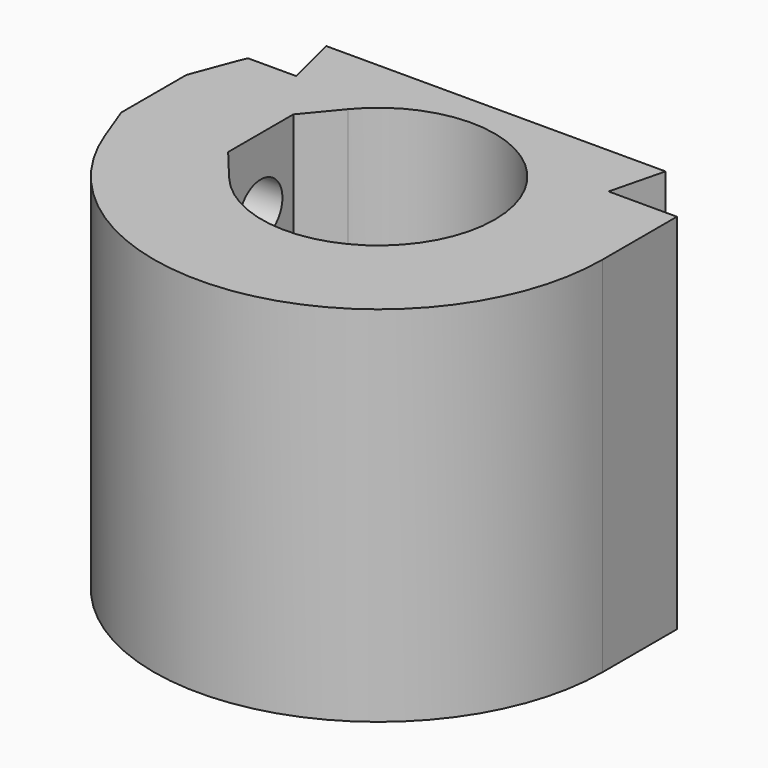
from build123d import *

# Parameters (mm, degrees)
F1_DEPTH = 33.9852
F2_R     = 2.54
F3_DEPTH = 10.00252


with BuildPart() as f1:
    # F0 (on Top) → F1 (new body)
    with BuildSketch(Plane.XY):
        with BuildLine():
            Line((-21.00072, -3.81), (-19.660266, -7.380647))
            ThreePointArc((-19.660266, -7.380647), (3.750628, -20.662352), (21, 0))
            Line((21, 0), (21, 8.67664))
            Line((21, 8.67664), (19.1237, 8.67664))
            Line((19.1237, 8.67664), (14.608414, 8.67664))
            Line((14.608414, 8.67664), (15.873164, 13.749278))
            ThreePointArc((15.873164, 13.749278), (15.869975, 13.752959), (15.866785, 13.75664))
            Line((15.866785, 13.75664), (-15.866785, 13.75664))
            ThreePointArc((-15.866785, 13.75664), (-15.869975, 13.752959), (-15.873164, 13.749278))
            Line((-15.873164, 13.749278), (-14.608414, 8.67664))
            Line((-14.608414, 8.67664), (-19.1237, 8.67664))
            ThreePointArc((-19.1237, 8.67664), (-19.402807, 8.033125), (-19.660266, 7.380647))
            Line((-19.660266, 7.380647), (-21.00072, 3.81))
            Line((-21.00072, 3.81), (-21.00072, -3.81))
        make_face()
        with BuildLine():
            ThreePointArc((-8.393747, 6.953776), (10.9, 0), (-8.393747, -6.953776))
            Line((-8.393747, -6.953776), (-10.9982, -3.81))
            Line((-10.9982, -3.81), (-10.9982, 3.81))
            Line((-10.9982, 3.81), (-8.393747, 6.953776))
        make_face(mode=Mode.SUBTRACT)
    extrude(amount=F1_DEPTH)

    # F2 (on face) → F3 (cut, through all)
    with BuildSketch(Plane(origin=(-21.00072, 0, 0), x_dir=(0, -1, 0), z_dir=(-1, 0, 0))):
        with Locations((0, 6.35)):
            Circle(F2_R)
        with Locations((0, 27.6352)):
            Circle(F2_R)
    extrude(amount=-F3_DEPTH, mode=Mode.SUBTRACT)


solid = f1.part
